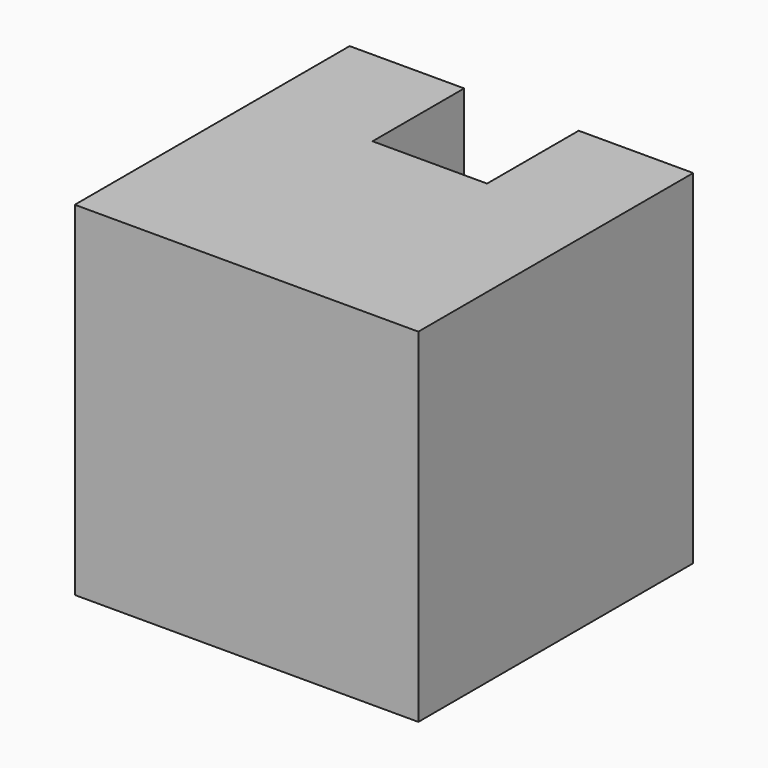
from build123d import *

# Parameters (mm, degrees)
PAD_DEPTH = 1


with BuildPart() as part:
    # Sketch → Pad (new body)
    with BuildSketch(Plane.XY):
        Polygon((0, 1), (0.333333, 1), (0.333333, 0.666667), (0.666667, 0.666667), (0.666667, 1), (1, 1), (1, 0), (0, 0), align=None)
    extrude(amount=PAD_DEPTH)


solid = part.part
